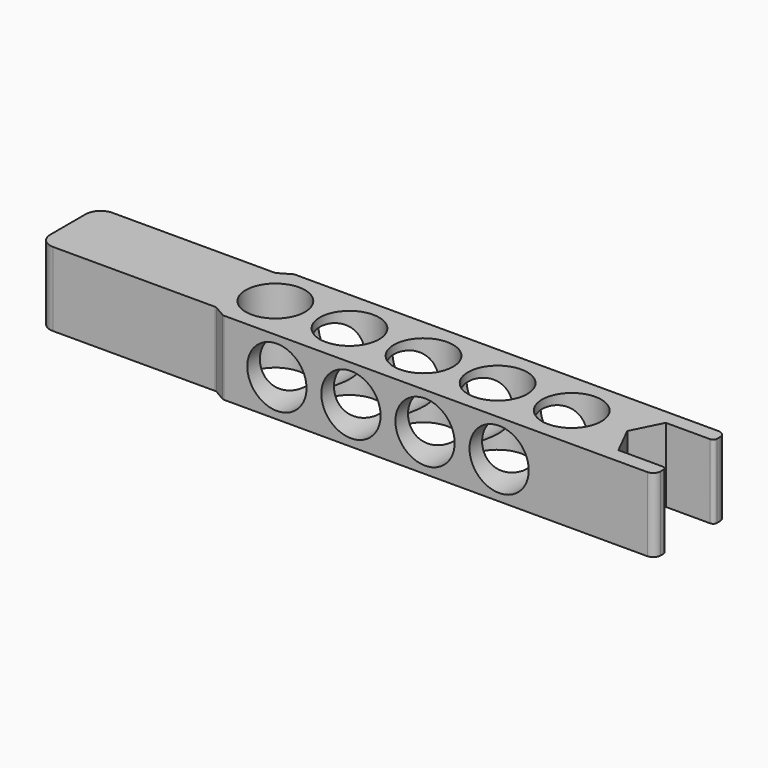
from build123d import *

# Parameters (mm, degrees)
F1_DEPTH = 31.75
F3_D     = 25.4
F5_D     = 25.4


with BuildPart() as f1:
    # F0 (on Top) → F1 (new body)
    with BuildSketch(Plane.XY):
        with BuildLine():
            Line((-51.225369343, -19.05), (130.175, -19.05))
            ThreePointArc((130.175, -19.05), (132.4200640303, -18.1200640303), (133.35, -15.875))
            Line((133.35, -15.875), (133.35, -14.2875))
            ThreePointArc((133.35, -14.2875), (132.8850320151, -13.1649679849), (131.7625, -12.7))
            Line((131.7625, -12.7), (112.7125, -12.7))
            Line((112.7125, -12.7), (106.3625, 0))
            Line((106.3625, 0), (112.7125, 12.7))
            Line((112.7125, 12.7), (131.7625, 12.7))
            ThreePointArc((131.7625, 12.7), (132.8850320151, 13.1649679849), (133.35, 14.2875))
            Line((133.35, 14.2875), (133.35, 15.875))
            ThreePointArc((133.35, 15.875), (132.4200640303, 18.1200640303), (130.175, 19.05))
            Line((130.175, 19.05), (-51.225369343, 19.05))
            ThreePointArc((-51.225369343, 19.05), (-51.6362445771, 18.9959072492), (-52.019119343, 18.8373153285))
            Line((-52.019119343, 18.8373153285), (-56.781619343, 16.0876846715))
            ThreePointArc((-56.781619343, 16.0876846715), (-57.1644941089, 15.9290927508), (-57.575369343, 15.875))
            Line((-57.575369343, 15.875), (-127, 15.875))
            ThreePointArc((-127, 15.875), (-131.4901280605, 14.0151280605), (-133.35, 9.525))
            Line((-133.35, 9.525), (-133.35, -9.525))
            ThreePointArc((-133.35, -9.525), (-131.4901280605, -14.0151280605), (-127, -15.875))
            Line((-127, -15.875), (-57.575369343, -15.875))
            ThreePointArc((-57.575369343, -15.875), (-57.1644941089, -15.9290927508), (-56.781619343, -16.0876846715))
            Line((-56.781619343, -16.0876846715), (-52.019119343, -18.8373153285))
            ThreePointArc((-52.019119343, -18.8373153285), (-51.6362445771, -18.9959072492), (-51.225369343, -19.05))
        make_face()
    extrude(amount=-F1_DEPTH)

    # F3 (through all)
    with Locations(Plane.XY):
        with Locations((-44.45, 0), (-12.7, 0), (19.05, 0), (50.8, 0), (82.55, 0)):
            Hole(F3_D / 2)

    # F5 (through all)
    with Locations(Plane(origin=(0, 19.05, 0), x_dir=(-1, 0, 0), z_dir=(0, 1, 0))):
        with Locations((28.575, -15.875), (-3.175, -15.875), (-34.925, -15.875), (-66.675, -15.875)):
            Hole(F5_D / 2)


solid = f1.part
